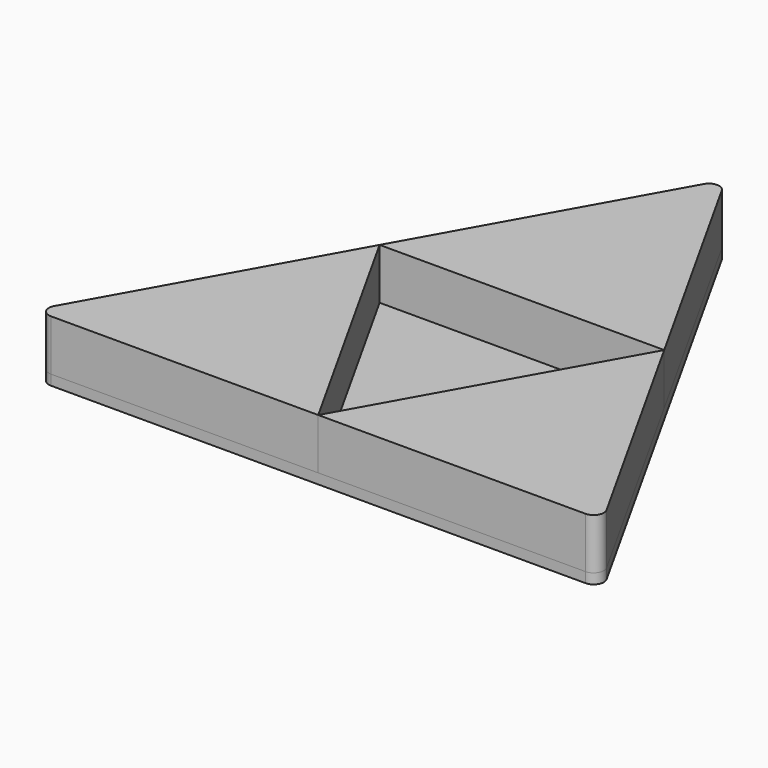
from build123d import *

# Parameters (mm, degrees)
F1_DEPTH = 1.27
F3_DEPTH = 6.35
F4_R     = 1.27
F4_2_R   = 1.27


with BuildPart() as f1:
    # F0 (on Top) → F1 (new body)
    with BuildSketch(Plane.XY):
        Polygon((35.4965, -31.75), (0, 31.75), (-35.4965, -31.75), align=None)
    extrude(amount=F1_DEPTH)

    # F4#2
    f4_2_edges = [f1.edges().sort_by_distance(p)[0] for p in [
        (35.4965, -31.75, 0.635),
        (0, 31.75, 0.635),
        (-35.4965, -31.75, 0.635),
    ]]
    fillet(f4_2_edges, radius=F4_2_R)


with BuildPart() as f3:
    # F2 (on face) → F3 (new body)
    with BuildSketch(Plane.XY.offset(1.27)):
        Polygon((17.74825, 0), (0, -31.75), (35.4965, -31.75), align=None)
        Polygon((-35.4965, -31.75), (0, -31.75), (-17.74825, 0), align=None)
        Polygon((0, 31.75), (-17.74825, 0), (17.74825, 0), align=None)
    extrude(amount=F3_DEPTH)

    # F4
    f4_edges = [f3.edges().sort_by_distance(p)[0] for p in [
        (-35.4965, -31.75, 4.445),
        (35.4965, -31.75, 4.445),
        (0, 31.75, 4.445),
    ]]
    fillet(f4_edges, radius=F4_R)


solid = Compound([f1.part, f3.part])
